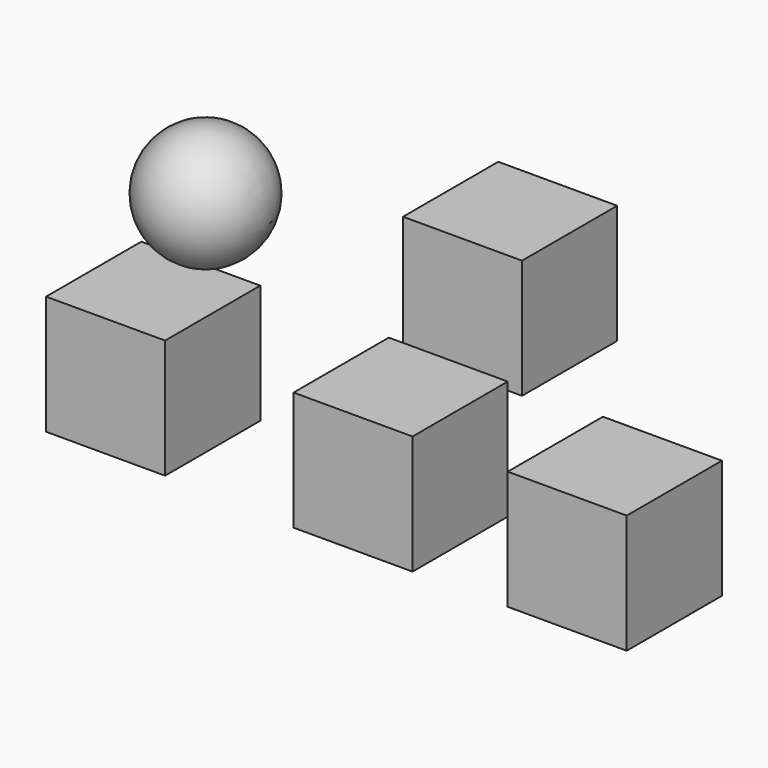
from build123d import *

# Parameters (mm, degrees)
BOX_W        = 10
BOX_H        = 10
BOX_DEPTH    = 10
BOX001_W     = 10
BOX001_H     = 10
BOX001_DEPTH = 10
BOX002_W     = 10
BOX002_H     = 10
BOX002_DEPTH = 10
BOX003_W     = 10
BOX003_H     = 10
BOX003_DEPTH = 10


with BuildPart() as cube:
    # Box → Box (new body)
    with BuildSketch(Plane(origin=(8, 24, 0), x_dir=(1, 0, 0), z_dir=(0, 0, 1))):
        with Locations((5, 5)):
            Rectangle(BOX_W, BOX_H)
    extrude(amount=BOX_DEPTH)


with BuildPart() as cube001:
    # Box001 → Box001 (new body)
    with BuildSketch(Plane(origin=(18, 0, 0), x_dir=(1, 0, 0), z_dir=(0, 0, 1))):
        with Locations((5, 5)):
            Rectangle(BOX001_W, BOX001_H)
    extrude(amount=BOX001_DEPTH)


with BuildPart() as cube002:
    # Box002 → Box002 (new body)
    with BuildSketch(Plane(origin=(36, 0, 0), x_dir=(1, 0, 0), z_dir=(0, 0, 1))):
        with Locations((5, 5)):
            Rectangle(BOX002_W, BOX002_H)
    extrude(amount=BOX002_DEPTH)


with BuildPart() as cube003:
    # Box003 → Box003 (new body)
    with BuildSketch(Plane(origin=(10, -16, 11), x_dir=(1, 0, 0), z_dir=(0, 0, 1))):
        with Locations((5, 5)):
            Rectangle(BOX003_W, BOX003_H)
    extrude(amount=BOX003_DEPTH)


with BuildPart() as sphere:
    # Sphere → Sphere (revolve)
    with BuildSketch(Plane(origin=(21, -13, 31), x_dir=(1, 0, 0), z_dir=(0, -1, 0))):
        with BuildLine():
            ThreePointArc((0, -5), (5, 0), (0, 5))
            Line((0, 5), (0, -5))
        make_face()
    revolve(axis=Axis((21, -13, 31), (0, 0, 1)))


solid = Compound([cube.part, cube001.part, cube002.part, cube003.part, sphere.part])
